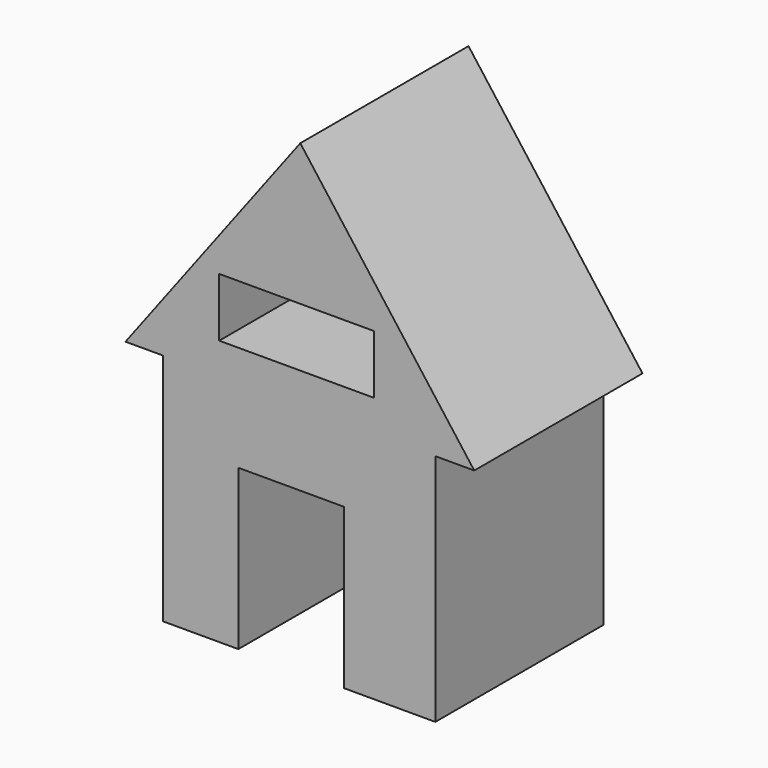
from build123d import *

# Parameters (mm, degrees)
F0_W     = 37.0153
F0_H     = 14.046831
F1_DEPTH = 50.24503


with BuildPart() as f1:
    # F0 (on Front) → F1 (new body)
    with BuildSketch(Plane.XZ):
        Polygon((-41.760854, 0), (-32.839216, 0), (32.26975, 0), (41.571032, 0), (0, 55.33313), align=None)
        with Locations((-0.8542, 14.521387)):
            Rectangle(F0_W, F0_H, mode=Mode.SUBTRACT)
        Polygon((32.26975, 0), (-32.839216, 0), (-32.839216, -55.902597), (-14.806122, -55.902597), (-14.806122, -17.748363), (10.440213, -17.748363), (10.440213, -55.902597), (32.26975, -55.902597), align=None)
    extrude(amount=F1_DEPTH)


solid = f1.part
